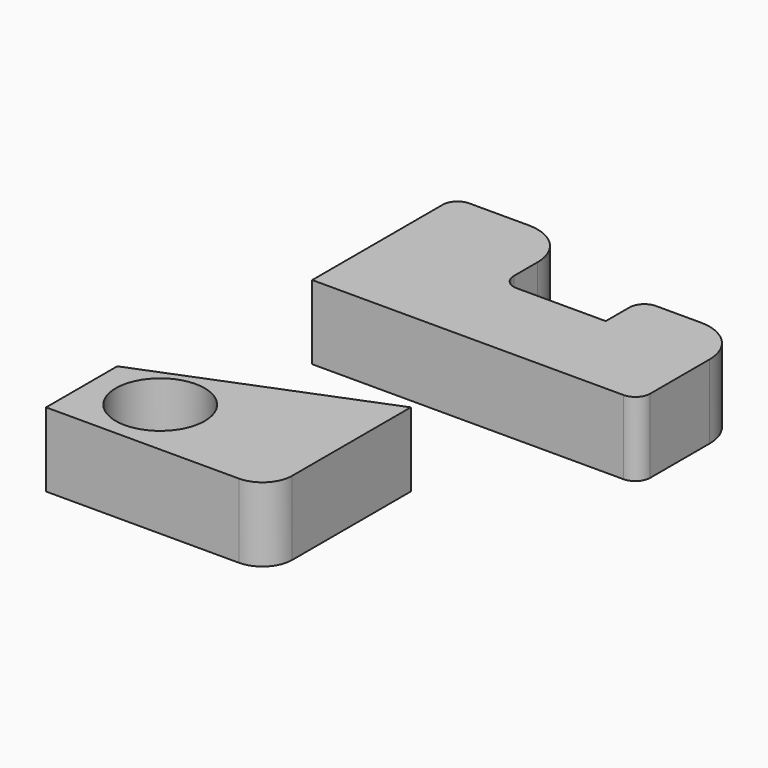
from build123d import *

# Parameters (mm, degrees)
F1_DEPTH = 25
F0_R     = 15
F2_DEPTH = 25


with BuildPart() as f1:
    # F0 (on Top) → F1 (new body)
    with BuildSketch(Plane.XY):
        with BuildLine():
            Line((-68.266129, 17.647848), (-68.266129, -37.352152))
            Line((-68.266129, -37.352152), (36.733871, -37.352152))
            ThreePointArc((36.733871, -37.352152), (40.269404, -35.887686), (41.733871, -32.352152))
            Line((41.733871, -32.352152), (41.733871, -7.352152))
            ThreePointArc((41.733871, -7.352152), (37.340472, 3.25445), (26.733871, 7.647848))
            Line((26.733871, 7.647848), (11.733871, 7.647848))
            ThreePointArc((11.733871, 7.647848), (8.198337, 6.183382), (6.733871, 2.647848))
            Line((6.733871, 2.647848), (6.733871, -7.352152))
            Line((6.733871, -7.352152), (-23.266129, -7.352152))
            ThreePointArc((-23.266129, -7.352152), (-26.801663, -5.887686), (-28.266129, -2.352152))
            Line((-28.266129, -2.352152), (-28.266129, 7.647848))
            ThreePointArc((-28.266129, 7.647848), (-32.659528, 18.25445), (-43.266129, 22.647848))
            Line((-43.266129, 22.647848), (-63.266129, 22.647848))
            ThreePointArc((-63.266129, 22.647848), (-66.801663, 21.183382), (-68.266129, 17.647848))
        make_face()
    extrude(amount=F1_DEPTH)


with BuildPart() as f2:
    # F0 (on Top) → F2 (new body)
    with BuildSketch(Plane.XY):
        with BuildLine():
            Line((-77.635311, -107.838587), (-77.635311, -137.838587))
            Line((-77.635311, -137.838587), (-12.635311, -137.838587))
            ThreePointArc((-12.635311, -137.838587), (-5.564243, -134.909655), (-2.635311, -127.838587))
            Line((-2.635311, -127.838587), (-2.635311, -77.838587))
            Line((-2.635311, -77.838587), (-77.635311, -107.838587))
        make_face()
        with Locations((-55.135311, -117.838587)):
            Circle(F0_R, mode=Mode.SUBTRACT)
    extrude(amount=F2_DEPTH)


solid = Compound([f1.part, f2.part])
